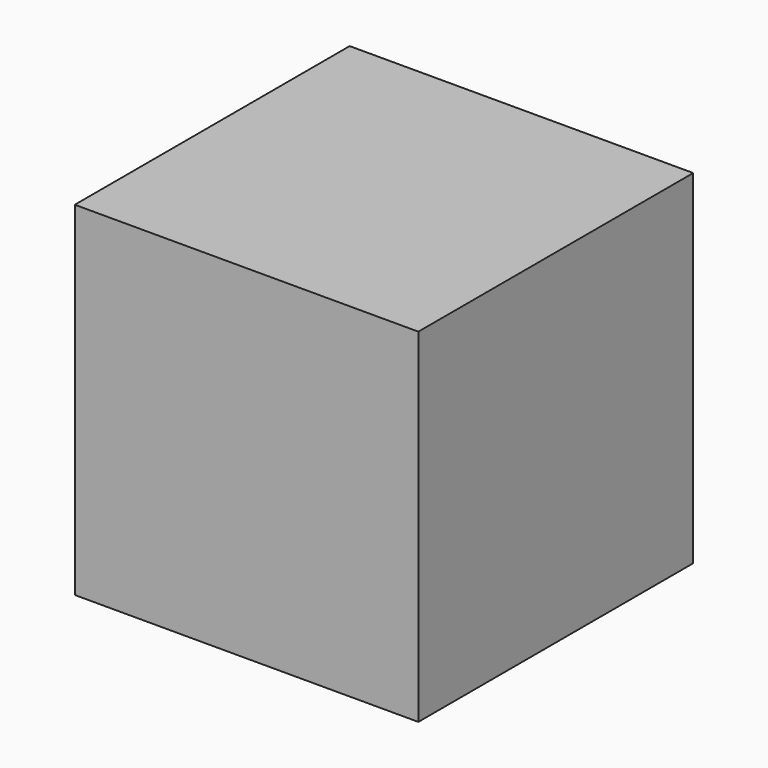
from build123d import *

# Parameters (mm, degrees)
F0_W     = 12
F0_H     = 12
F1_DEPTH = 12
F3_START = 3
F2_W     = 6
F2_H     = 6
F3_DEPTH = 6


with BuildPart() as f1:
    # F0 (on Top) → F1 (new body)
    with BuildSketch(Plane.XY):
        with Locations((-6, -6)):
            Rectangle(F0_W, F0_H)
        with Locations((-6, -6)):
            Rectangle(F0_W, F0_H)
    extrude(amount=F1_DEPTH)

    # F2 (on Top) → F3 (cut)
    with BuildSketch(Plane.XY.offset(F3_START)):
        with Locations((-6, -6)):
            Rectangle(F2_W, F2_H)
    extrude(amount=F3_DEPTH, mode=Mode.SUBTRACT)


solid = f1.part
